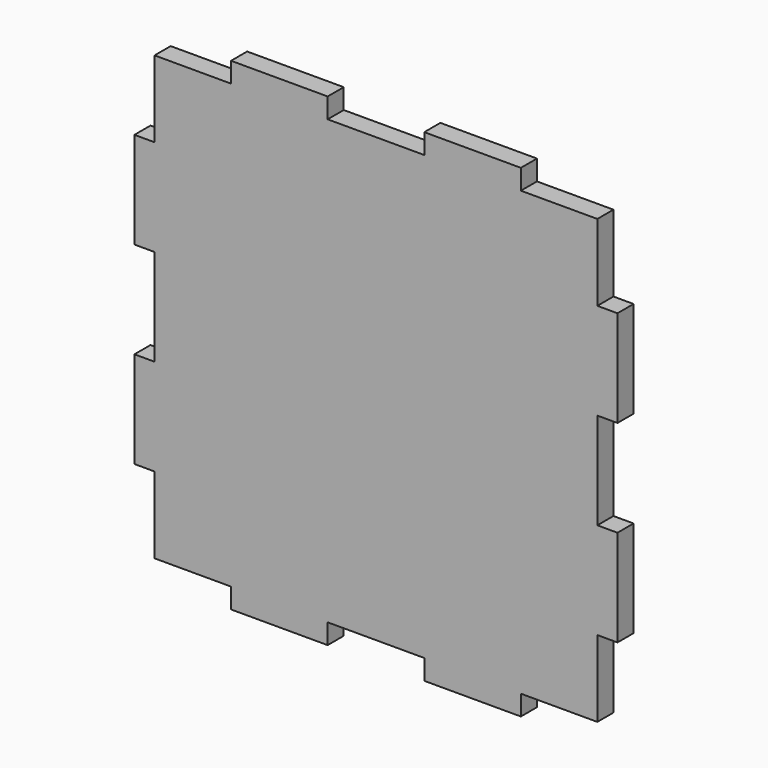
from build123d import *

# Parameters (mm, degrees)
F0_W     = 152.4
F0_H     = 152.4
F1_DEPTH = 6.35
F2_W     = 24.13
F2_H     = 6.35
F2_W_2   = 6.35
F2_H_2   = 24.13
F2_H_3   = 30.48
F2_W_3   = 30.48
F3_DEPTH = 6.351


with BuildPart() as f1:
    # F0 (on Front) → F1 (new body)
    with BuildSketch(Plane.XZ):
        Rectangle(F0_W, F0_H)
    extrude(amount=F1_DEPTH)

    # F2 (on face) → F3 (cut, through all)
    with BuildSketch(Plane.XZ.offset(6.35)):
        with Locations((-57.785, 73.025)):
            Rectangle(F2_W, F2_H)
        with Locations((-73.025, 73.025)):
            Rectangle(F2_W_2, F2_H)
        with Locations((-73.025, 57.785)):
            Rectangle(F2_W_2, F2_H_2)
        with Locations((-73.025, 0)):
            Rectangle(F2_W_2, F2_H_3)
        with Locations((-73.025, -57.785)):
            Rectangle(F2_W_2, F2_H_2)
        with Locations((-73.025, -73.025)):
            Rectangle(F2_W_2, F2_H)
        with Locations((-57.785, -73.025)):
            Rectangle(F2_W, F2_H)
        with Locations((0, -73.025)):
            Rectangle(F2_W_3, F2_H)
        with Locations((57.785, -73.025)):
            Rectangle(F2_W, F2_H)
        with Locations((73.025, -73.025)):
            Rectangle(F2_W_2, F2_H)
        with Locations((73.025, -57.785)):
            Rectangle(F2_W_2, F2_H_2)
        with Locations((73.025, 0)):
            Rectangle(F2_W_2, F2_H_3)
        with Locations((73.025, 57.785)):
            Rectangle(F2_W_2, F2_H_2)
        with Locations((73.025, 73.025)):
            Rectangle(F2_W_2, F2_H)
        with Locations((57.785, 73.025)):
            Rectangle(F2_W, F2_H)
        with Locations((0, 73.025)):
            Rectangle(F2_W_3, F2_H)
    extrude(amount=-F3_DEPTH, mode=Mode.SUBTRACT)


solid = f1.part
